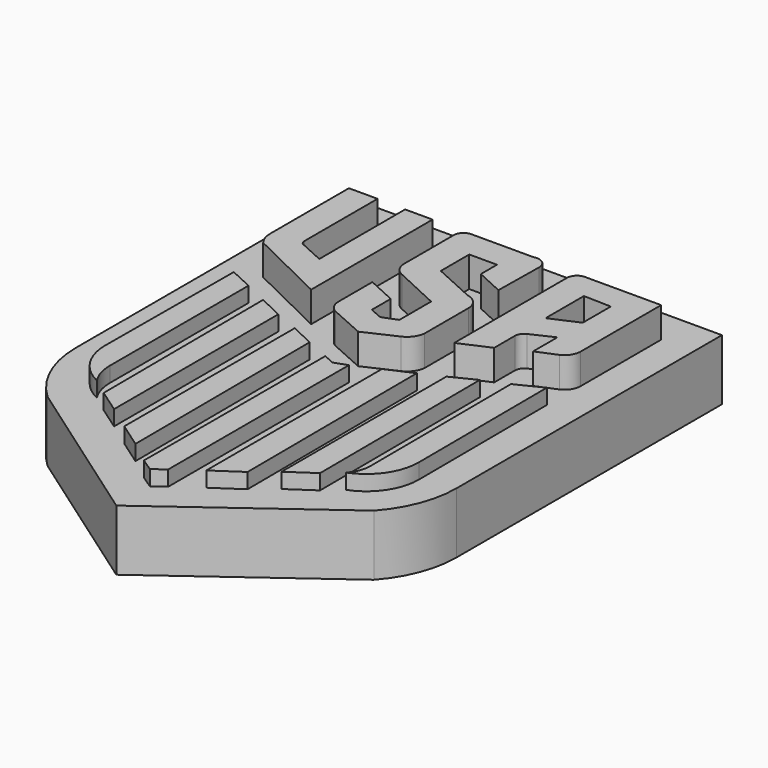
from build123d import *

# Parameters (mm, degrees)
F1_DEPTH = 15.24
F2_DEPTH = 12.7
F3_DEPTH = 10.16


with BuildPart() as f1:
    # F0 (on Top) → F1 (new body)
    with BuildSketch(Plane.XY):
        with BuildLine():
            Line((-35.3495, 60.131524), (-40.133959, 60.131524))
            Line((-40.133959, 60.131524), (-40.133959, 43.769562))
            ThreePointArc((-40.133959, 43.769562), (-39.905763, 42.381693), (-39.245203, 41.139955))
            Line((-39.245203, 41.139955), (-26.097199, 34.712043))
            Line((-26.097199, 34.712043), (-26.097199, 60.034128))
            Line((-26.097199, 60.034128), (-30.674654, 60.034128))
            Line((-30.674654, 60.034128), (-30.674654, 42.308667))
            Line((-30.674654, 42.308667), (-30.674654, 42.125131))
            Line((-30.674654, 42.125131), (-34.736989, 43.975933))
            ThreePointArc((-34.736989, 43.975933), (-35.180866, 44.310949), (-35.3495, 44.840879))
            Line((-35.3495, 44.840879), (-35.3495, 60.131524))
        make_face()
        with BuildLine():
            Line((-11.580281, 51.967774), (-6.953094, 49.838448))
            Line((-6.953094, 49.838448), (-6.830248, 58.170216))
            ThreePointArc((-6.830248, 58.170216), (-7.547014, 59.653243), (-9.164316, 59.965426))
            Line((-9.164316, 59.965426), (-19.565252, 59.965426))
            ThreePointArc((-19.565252, 59.965426), (-20.778535, 59.428841), (-21.197871, 58.170216))
            Line((-21.197871, 58.170216), (-21.197871, 47.978059))
            ThreePointArc((-21.197871, 47.978059), (-20.754073, 46.476274), (-19.565252, 45.456952))
            Line((-19.565252, 45.456952), (-11.785025, 41.853478))
            Line((-11.785025, 41.853478), (-11.785025, 35.219812))
            Line((-11.785025, 35.219812), (-14.241938, 34.277995))
            Line((-14.241938, 34.277995), (-16.371263, 35.219812))
            Line((-16.371263, 35.219812), (-16.371263, 39.150875))
            Line((-16.371263, 39.150875), (-21.203195, 41.362097))
            Line((-21.203195, 41.362097), (-21.203195, 34.277995))
            ThreePointArc((-21.203195, 34.277995), (-20.840997, 32.929487), (-19.85189, 31.943927))
            Line((-19.85189, 31.943927), (-13.914351, 29.282272))
            Line((-13.914351, 29.282272), (-8.672934, 31.698236))
            ThreePointArc((-8.672934, 31.698236), (-7.409398, 32.743692), (-6.830248, 34.277995))
            Line((-6.830248, 34.277995), (-6.830248, 43.409521))
            ThreePointArc((-6.830248, 43.409521), (-7.490944, 45.226204), (-9.164316, 46.194026))
            Line((-9.164316, 46.194026), (-16.207468, 49.388015))
            Line((-16.207468, 49.388015), (-16.207468, 55.325555))
            Line((-16.207468, 55.325555), (-11.580281, 55.325555))
            Line((-11.580281, 55.325555), (-11.580281, 51.967774))
        make_face()
        with BuildLine():
            Line((-2.144403, 34.621232), (2.7823, 36.786695))
            Line((2.7823, 36.786695), (2.7823, 41.127243))
            ThreePointArc((2.7823, 41.127243), (3.032611, 41.95286), (3.683167, 42.519495))
            Line((3.683167, 42.519495), (7.368538, 44.239336))
            Line((7.368538, 44.239336), (7.368538, 39.161714))
            Line((7.368538, 39.161714), (10.685371, 40.553966))
            ThreePointArc((10.685371, 40.553966), (11.819683, 41.556771), (12.241417, 43.010876))
            Line((12.241417, 43.010876), (12.241417, 59.792126))
            Line((12.241417, 59.792126), (-0.319427, 59.792126))
            ThreePointArc((-0.319427, 59.792126), (-1.598421, 59.370402), (-2.144403, 58.139313))
            Line((-2.144403, 58.139313), (-2.144403, 34.621232))
        make_face()
        Polygon((2.7823, 47.515221), (2.7823, 55.500185), (7.368538, 55.377342), (7.368538, 49.521698), align=None, mode=Mode.SUBTRACT)
    extrude(amount=F1_DEPTH)


with BuildPart() as f2:
    # F0 (on Top) → F2 (new body)
    with BuildSketch(Plane.XY):
        with BuildLine():
            Line((-36.221196, 34.301637), (-40.116899, 36.103401))
            Line((-40.116899, 36.103401), (-40.26299, 9.51521))
            ThreePointArc((-40.26299, 9.51521), (-38.829457, 4.505833), (-34.924753, 1.055882))
            ThreePointArc((-34.924753, 1.055882), (-35.890099, 3.120786), (-36.221196, 5.376023))
            Line((-36.221196, 5.376023), (-36.221196, 34.301637))
        make_face()
        Polygon((-28.137608, 30.40593), (-32.228097, 32.353785), (-32.053457, -1.11851), (-28.137608, -3.845503), align=None)
        Polygon((-20.025467, 26.800887), (-24.018567, 28.700044), (-24.067261, -6.799573), (-19.834662, -9.769816), align=None)
        Polygon((-14.174307, 24.187266), (-15.983673, 25.047818), (-16.051294, -12.73049), (-13.916418, -14.146952), (-11.990574, -12.73049), (-11.990574, 24.950425), align=None)
        Polygon((-3.661716, 28.700044), (-7.946991, 26.800887), (-7.946991, -9.852093), (-3.476346, -6.828905), align=None)
        Polygon((3.93491, 32.353785), (-0.058187, 30.371067), (-0.058187, -4.008536), (4.109884, -1.182727), align=None)
        with BuildLine():
            Line((12.117932, 36.103401), (7.830616, 33.974593))
            Line((7.830616, 33.974593), (7.984579, 4.465428))
            ThreePointArc((7.984579, 4.465428), (7.646931, 2.635085), (6.661903, 1.055882))
            ThreePointArc((6.661903, 1.055882), (10.736967, 4.274239), (12.258095, 9.23913))
            Line((12.258095, 9.23913), (12.117932, 36.103401))
        make_face()
    extrude(amount=F2_DEPTH)


with BuildPart() as f3:
    # F0 (on Top) → F3 (new body)
    with BuildSketch(Plane.XY):
        with BuildLine():
            Line((17.619875, 65.742654), (-45.880125, 65.742654))
            Line((-45.880125, 65.742654), (-45.880125, 10.423636))
            ThreePointArc((-45.880125, 10.423636), (-44.380848, 3.249228), (-40.133959, -2.724371))
            Line((-40.133959, -2.724371), (-13.956032, -21.107036))
            Line((-13.956032, -21.107036), (13.139814, -1.26348))
            ThreePointArc((13.139814, -1.26348), (16.461486, 4.165449), (17.619875, 10.423636))
            Line((17.619875, 10.423636), (17.619875, 65.742654))
        make_face()
        Polygon((-32.053457, -1.11851), (-32.228097, 32.353785), (-28.137608, 30.40593), (-28.137608, -3.845503), align=None, mode=Mode.SUBTRACT)
        with BuildLine():
            Line((-40.26299, 9.51521), (-40.116899, 36.103401))
            Line((-40.116899, 36.103401), (-36.221196, 34.301637))
            Line((-36.221196, 34.301637), (-36.221196, 5.376023))
            ThreePointArc((-36.221196, 5.376023), (-35.890099, 3.120786), (-34.924753, 1.055882))
            ThreePointArc((-34.924753, 1.055882), (-38.829457, 4.505833), (-40.26299, 9.51521))
        make_face(mode=Mode.SUBTRACT)
        Polygon((-24.067261, -6.799573), (-24.018567, 28.700044), (-20.025467, 26.800887), (-19.834662, -9.769816), align=None, mode=Mode.SUBTRACT)
        Polygon((-16.051294, -12.73049), (-15.983673, 25.047818), (-14.174307, 24.187266), (-11.990574, 24.950425), (-11.990574, -12.73049), (-13.916418, -14.146952), align=None, mode=Mode.SUBTRACT)
        Polygon((-7.946991, -9.852093), (-7.946991, 26.800887), (-3.661716, 28.700044), (-3.476346, -6.828905), align=None, mode=Mode.SUBTRACT)
        Polygon((-0.058187, -4.008536), (-0.058187, 30.371067), (3.93491, 32.353785), (4.109884, -1.182727), align=None, mode=Mode.SUBTRACT)
        with BuildLine():
            Line((7.984579, 4.465428), (7.830616, 33.974593))
            Line((7.830616, 33.974593), (12.117932, 36.103401))
            Line((12.117932, 36.103401), (12.258095, 9.23913))
            ThreePointArc((12.258095, 9.23913), (10.736967, 4.274239), (6.661903, 1.055882))
            ThreePointArc((6.661903, 1.055882), (7.646931, 2.635085), (7.984579, 4.465428))
        make_face(mode=Mode.SUBTRACT)
        with BuildLine():
            Line((-40.133959, 43.769562), (-40.133959, 60.131524))
            Line((-40.133959, 60.131524), (-35.3495, 60.131524))
            Line((-35.3495, 60.131524), (-35.3495, 44.840879))
            ThreePointArc((-35.3495, 44.840879), (-35.180866, 44.310949), (-34.736989, 43.975933))
            Line((-34.736989, 43.975933), (-30.674654, 42.125131))
            Line((-30.674654, 42.125131), (-30.674654, 42.308667))
            Line((-30.674654, 42.308667), (-30.674654, 60.034128))
            Line((-30.674654, 60.034128), (-26.097199, 60.034128))
            Line((-26.097199, 60.034128), (-26.097199, 34.712043))
            Line((-26.097199, 34.712043), (-39.245203, 41.139955))
            ThreePointArc((-39.245203, 41.139955), (-39.905763, 42.381693), (-40.133959, 43.769562))
        make_face(mode=Mode.SUBTRACT)
        with BuildLine():
            Line((-6.830248, 58.170216), (-6.953094, 49.838448))
            Line((-6.953094, 49.838448), (-11.580281, 51.967774))
            Line((-11.580281, 51.967774), (-11.580281, 55.325555))
            Line((-11.580281, 55.325555), (-16.207468, 55.325555))
            Line((-16.207468, 55.325555), (-16.207468, 49.388015))
            Line((-16.207468, 49.388015), (-9.164316, 46.194026))
            ThreePointArc((-9.164316, 46.194026), (-7.490944, 45.226204), (-6.830248, 43.409521))
            Line((-6.830248, 43.409521), (-6.830248, 34.277995))
            ThreePointArc((-6.830248, 34.277995), (-7.409398, 32.743692), (-8.672934, 31.698236))
            Line((-8.672934, 31.698236), (-13.914351, 29.282272))
            Line((-13.914351, 29.282272), (-19.85189, 31.943927))
            ThreePointArc((-19.85189, 31.943927), (-20.840997, 32.929487), (-21.203195, 34.277995))
            Line((-21.203195, 34.277995), (-21.203195, 41.362097))
            Line((-21.203195, 41.362097), (-16.371263, 39.150875))
            Line((-16.371263, 39.150875), (-16.371263, 35.219812))
            Line((-16.371263, 35.219812), (-14.241938, 34.277995))
            Line((-14.241938, 34.277995), (-11.785025, 35.219812))
            Line((-11.785025, 35.219812), (-11.785025, 41.853478))
            Line((-11.785025, 41.853478), (-19.565252, 45.456952))
            ThreePointArc((-19.565252, 45.456952), (-20.754073, 46.476274), (-21.197871, 47.978059))
            Line((-21.197871, 47.978059), (-21.197871, 58.170216))
            ThreePointArc((-21.197871, 58.170216), (-20.778535, 59.428841), (-19.565252, 59.965426))
            Line((-19.565252, 59.965426), (-9.164316, 59.965426))
            ThreePointArc((-9.164316, 59.965426), (-7.547014, 59.653243), (-6.830248, 58.170216))
        make_face(mode=Mode.SUBTRACT)
        with BuildLine():
            Line((2.7823, 41.127243), (2.7823, 36.786695))
            Line((2.7823, 36.786695), (-2.144403, 34.621232))
            Line((-2.144403, 34.621232), (-2.144403, 58.139313))
            ThreePointArc((-2.144403, 58.139313), (-1.598421, 59.370402), (-0.319427, 59.792126))
            Line((-0.319427, 59.792126), (12.241417, 59.792126))
            Line((12.241417, 59.792126), (12.241417, 43.010876))
            ThreePointArc((12.241417, 43.010876), (11.819683, 41.556771), (10.685371, 40.553966))
            Line((10.685371, 40.553966), (7.368538, 39.161714))
            Line((7.368538, 39.161714), (7.368538, 44.239336))
            Line((7.368538, 44.239336), (3.683167, 42.519495))
            ThreePointArc((3.683167, 42.519495), (3.032611, 41.95286), (2.7823, 41.127243))
        make_face(mode=Mode.SUBTRACT)
        Polygon((7.368538, 55.377342), (2.7823, 55.500185), (2.7823, 47.515221), (7.368538, 49.521698), align=None)
    extrude(amount=F3_DEPTH)


with BuildPart() as f2_1:
    add(f2.part)

    # F4: union F3
    add(f3.part)

    # F5: union 


with BuildPart() as f1_1:
    add(f1.part)

    # F6: union F2
    add(f2_1.part)


solid = f1_1.part
